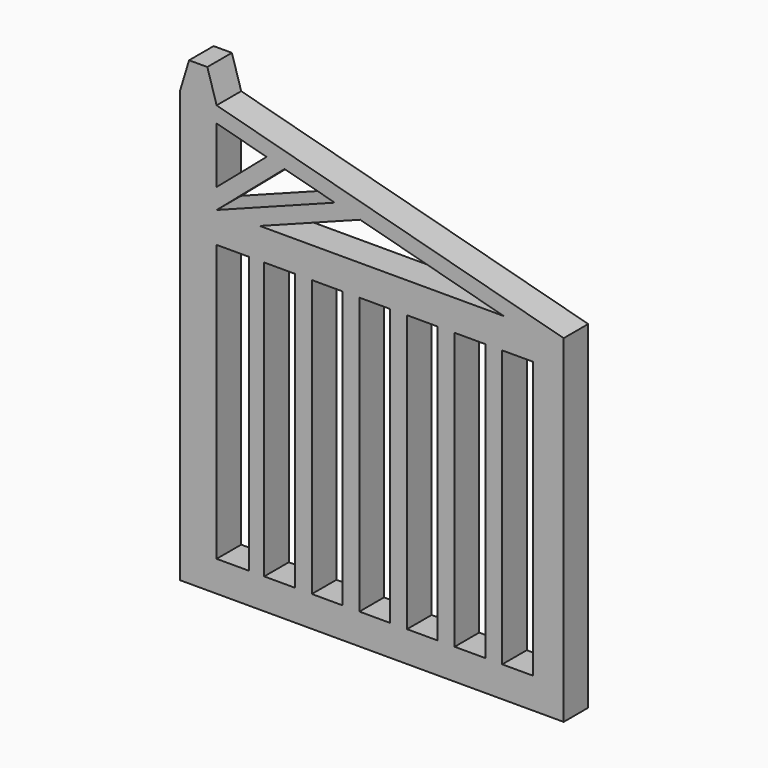
from build123d import *

# Parameters (mm, degrees)
F0_W     = 1.05
F0_H     = 9
F0_W_2   = 1
F1_DEPTH = 1


with BuildPart() as f1:
    # F0 (on Front) → F1 (new body)
    with BuildSketch(Plane.XZ):
        Polygon((0, 14), (0, 0), (12.5, 0), (12.5, 11), (1.2, 14), (0.897396, 15), (0.302604, 15), align=None)
        with Locations((1.725, 5.5)):
            Rectangle(F0_W, F0_H, mode=Mode.SUBTRACT)
        with Locations((3.25, 5.5)):
            Rectangle(F0_W_2, F0_H, mode=Mode.SUBTRACT)
        with Locations((4.8, 5.5)):
            Rectangle(F0_W_2, F0_H, mode=Mode.SUBTRACT)
        with Locations((6.35, 5.5)):
            Rectangle(F0_W_2, F0_H, mode=Mode.SUBTRACT)
        with Locations((7.9, 5.5)):
            Rectangle(F0_W_2, F0_H, mode=Mode.SUBTRACT)
        with Locations((9.45, 5.5)):
            Rectangle(F0_W_2, F0_H, mode=Mode.SUBTRACT)
        with Locations((11, 5.5)):
            Rectangle(F0_W_2, F0_H, mode=Mode.SUBTRACT)
        Polygon((5.046939, 12.461368), (1.2, 11), (3.413901, 12.894918), align=None, mode=Mode.SUBTRACT)
        Polygon((1.2, 11.65814), (1.2, 13.482679), (2.827012, 13.050729), align=None, mode=Mode.SUBTRACT)
        Polygon((5.875713, 12.24134), (10.551425, 11), (2.607982, 11), align=None, mode=Mode.SUBTRACT)
    extrude(amount=F1_DEPTH)


solid = f1.part
